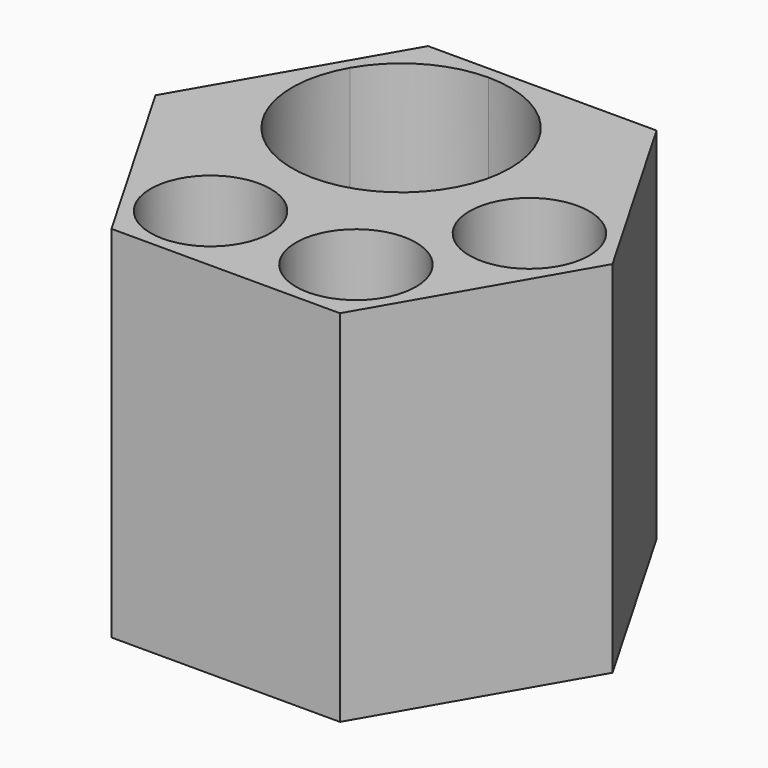
from build123d import *

# Parameters (mm, degrees)
F1_DEPTH  = 38.1
F3_DEPTH  = 18.542
F5_DEPTH  = 18.796
F6_R      = 3.6195
F7_DEPTH  = 24.257
F9_DEPTH  = 18.796
F11_DEPTH = 19.05


with BuildPart() as f1:
    # F0 (on Top) → F1 (new body)
    with BuildSketch(Plane.XY):
        Polygon((-12.0983748909, -20.955), (12.0983748909, -20.955), (24.1967497817, 0), (12.0983748909, 20.955), (-12.0983748909, 20.955), (-24.1967497817, 0), align=None)
    extrude(amount=F1_DEPTH)

    # F2 (on face) → F3 (cut)
    with BuildSketch(Plane.XY.offset(38.1)):
        Polygon((-11.365140049, -19.685), (11.365140049, -19.685), (22.730280098, 0), (11.365140049, 19.685), (-11.365140049, 19.685), (-22.730280098, 0), align=None)
    extrude(amount=-F3_DEPTH, mode=Mode.SUBTRACT)

    # F4 (on face) → F5 (join)
    with BuildSketch(Plane.XY.offset(38.1)):
        with BuildLine():
            ThreePointArc((-4.692702988, 19.685), (3.4793300822, 16.3000330702), (6.864297012, 8.128))
            ThreePointArc((6.864297012, 8.128), (-7.683874715, -3.0352047683), (-14.7013585559, 13.9065000408))
            Line((-14.7013585559, 13.9065000408), (-22.730280098, 0))
            Line((-22.730280098, 0), (-13.1982271906, -16.509999936))
            ThreePointArc((-13.1982271906, -16.509999936), (-9.3424667403, -7.2013709935), (-1.3489658396, -13.335))
            ThreePointArc((-1.3489658396, -13.335), (-3.2088377669, -17.8251280484), (-7.6989658052, -19.685))
            Line((-7.6989658052, -19.685), (7.6989658396, -19.685))
            ThreePointArc((7.6989658396, -19.685), (3.2088377791, -8.8448719395), (14.0489658396, -13.335))
            ThreePointArc((14.0489658396, -13.335), (13.8325948227, -14.9785009883), (13.1982271, -16.510000093))
            Line((13.1982271, -16.510000093), (20.8971929349, -3.1750001012))
            ThreePointArc((20.8971929349, -3.1750001012), (9.0479316793, 1.601e-07), (20.897193095, 3.1749998238))
            Line((20.897193095, 3.1749998238), (11.365140049, 19.685))
            Line((11.365140049, 19.685), (-4.692702988, 19.685))
        make_face()
        with BuildLine():
            ThreePointArc((-7.6989658052, -19.685), (-10.8739658568, -18.8342613042), (-13.1982271906, -16.509999936))
            Line((-13.1982271906, -16.509999936), (-11.365140049, -19.685))
            Line((-11.365140049, -19.685), (-7.6989658052, -19.685))
        make_face()
        with BuildLine():
            Line((11.365140049, -19.685), (13.1982271, -16.510000093))
            ThreePointArc((13.1982271, -16.510000093), (10.8739657932, -18.8342613409), (7.6989658396, -19.685))
            Line((7.6989658396, -19.685), (11.365140049, -19.685))
        make_face()
        with BuildLine():
            Line((22.730280098, 0), (20.897193095, 3.1749998238))
            ThreePointArc((20.897193095, 3.1749998238), (21.5315607026, 1.6435008381), (21.7479316793, 0))
            ThreePointArc((21.7479316793, 0), (21.5315606611, -1.6435009928), (20.8971929349, -3.1750001012))
            Line((20.8971929349, -3.1750001012), (22.730280098, 0))
        make_face()
        with BuildLine():
            ThreePointArc((-14.7013585559, 13.9065000408), (-10.4712029675, 18.1366556033), (-4.692702988, 19.685))
            Line((-4.692702988, 19.685), (-11.365140049, 19.685))
            Line((-11.365140049, 19.685), (-14.7013585559, 13.9065000408))
        make_face()
    extrude(amount=-F5_DEPTH)

    # F6 (on face) → F7 (cut)
    with BuildSketch(Plane.XY.offset(38.1)):
        with Locations((-4.914952988, 8.512948292)):
            Circle(F6_R)
    extrude(amount=-F7_DEPTH, mode=Mode.SUBTRACT)

    # F8 (on face) → F9 (join)
    with BuildSketch(Plane(origin=(0, 0, 0), x_dir=(1, 0, 0), z_dir=(0, 0, -1))):
        Polygon((-20.1272964094, -11.6205), (-18.1475623363, -10.4775), (-19.2905623363, -8.4977659269), (-21.8417964094, -8.6508988904), align=None)
        Polygon((-17.0045623363, -12.4572340731), (-18.1475623363, -10.4775), (-20.1272964094, -11.6205), (-18.4127964094, -14.5901011096), align=None)
    extrude(amount=-F9_DEPTH)

    # F10 (on face) → F11 (cut)
    with BuildSketch(Plane(origin=(0, 0, 0), x_dir=(1, 0, 0), z_dir=(0, 0, -1))):
        Polygon((-2.54, -20.955), (0, -20.955), (0, -18.415), (-3.81, -18.415), align=None)
        Polygon((0, -18.415), (0, -20.955), (2.54, -20.955), (3.81, -18.415), align=None)
    extrude(amount=-F11_DEPTH, mode=Mode.SUBTRACT)


solid = f1.part
